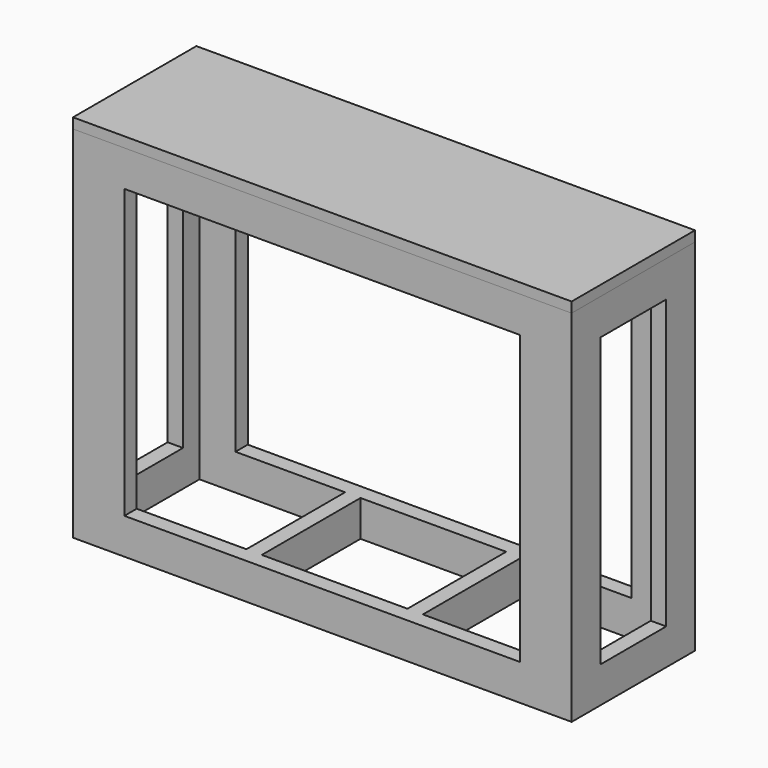
from build123d import *

# Parameters (mm, degrees)
F0_W     = 1231.9
F0_H     = 381
F6_DEPTH = 889
F1_W     = 203.2
F1_H     = 711.2
F2_DEPTH = 1231.901
F3_W     = 977.9
F3_H     = 711.2
F7_DEPTH = 381.001
F8_W     = 359.824867
F8_H     = 304.8
F8_W_2   = 359.8418
F8_W_3   = 359.833333
F9_DEPTH = 889.001
F4_W     = 1231.9
F4_H     = 381
F5_DEPTH = 25.4


with BuildPart() as f6:
    # F0 (on Top) → F6 (new body)
    with BuildSketch(Plane.XY):
        with Locations((615.95, 190.5)):
            Rectangle(F0_W, F0_H)
    extrude(amount=F6_DEPTH)

    # F1 (on face) → F2 (cut, through all)
    with BuildSketch(Plane(origin=(0, 0, 0), x_dir=(0, -1, 0), z_dir=(-1, 0, 0))):
        with Locations((-190.5, 444.5)):
            Rectangle(F1_W, F1_H)
    extrude(amount=-F2_DEPTH, mode=Mode.SUBTRACT)

    # F3 (on face) → F7 (cut, through all)
    with BuildSketch(Plane.XZ):
        with Locations((615.95, 444.5)):
            Rectangle(F3_W, F3_H)
    extrude(amount=-F7_DEPTH, mode=Mode.SUBTRACT)

    # F8 (on face) → F9 (cut, through all)
    with BuildSketch(Plane.XY.offset(889)):
        with Locations((218.012434, 190.5)):
            Rectangle(F8_W, F8_H)
        with Locations((615.945767, 190.5)):
            Rectangle(F8_W_2, F8_H)
        with Locations((1013.883333, 190.5)):
            Rectangle(F8_W_3, F8_H)
    extrude(amount=-F9_DEPTH, mode=Mode.SUBTRACT)


with BuildPart() as f5:
    # F4 (on face) → F5 (new body)
    with BuildSketch(Plane.XY.offset(889)):
        with Locations((615.95, 190.5)):
            Rectangle(F4_W, F4_H)
        with Locations((615.95, 190.5)):
            Rectangle(F4_W, F4_H)
        with Locations((615.95, 190.5)):
            Rectangle(F4_W, F4_H)
        with Locations((615.95, 190.5)):
            Rectangle(F4_W, F4_H)
    extrude(amount=F5_DEPTH)


solid = Compound([f6.part, f5.part])
